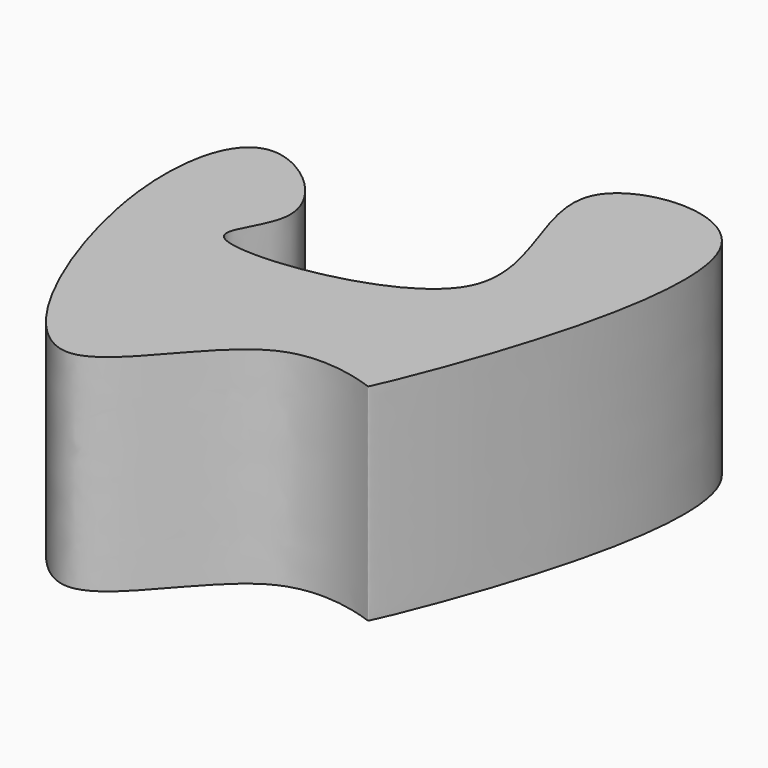
from build123d import *

# Parameters (mm, degrees)
F1_DEPTH = 75.438


with BuildPart() as f1:
    # F0 (on Top) → F1 (new body)
    with BuildSketch(Plane.XY):
        with BuildLine():
            add(Edge.make_bspline(
                [(-137.830555439, -57.1365654469), (-140.8510417275, -32.0233443459), (-131.2485463354, 3.25250256), (-81.7434236131, -39.4122549907), (-123.7743398191, -74.7091363659), (10.6212827606, -58.2521240198), (-64.8574362789, 32.7515642801), (54.4031788405, 44.195746885), (-10.7047863797, -109.8374502402), (-11.6134609757, -109.9705010126), (-53.2937869995, -94.0609919352), (-94.2528485665, -186.9359998201), (-133.360064097, -94.3055597009), (-137.830555439, -57.1365654469)],
                knots=[0, 0, 0, 0, 0.0872923857, 0.1683052226, 0.2307413588, 0.3426073071, 0.4478464849, 0.5374495871, 0.6851854043, 0.6966423445, 0.7703061927, 0.8708023088, 1, 1, 1, 1], degree=3))
        make_face()
    extrude(amount=F1_DEPTH)


solid = f1.part
